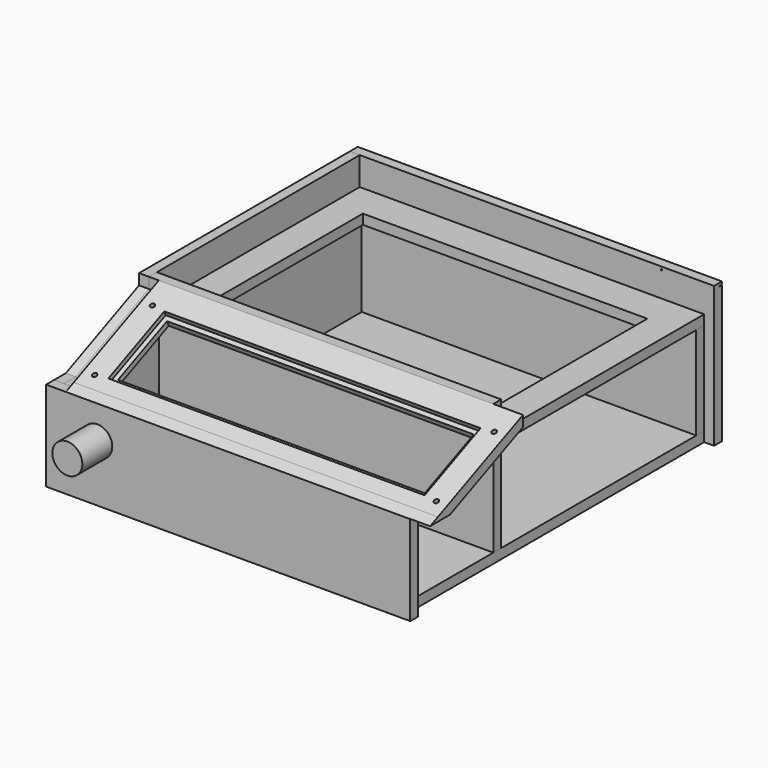
from build123d import *

# Parameters (mm, degrees)
F0_W      = 230
F0_H      = 247
F1_DEPTH  = 6.6
F2_W      = 243.2
F2_H      = 94
F2_R      = 0.4403166593
F3_DEPTH  = 6.6
F4_W      = 247
F4_H      = 94
F5_DEPTH  = 6.6
F6_W      = 230
F6_H      = 62
F7_DEPTH  = 6.6
F8_W      = 243.2
F8_H      = 60
F9_DEPTH  = 6.6
F10_W     = 71
F10_H     = 87.4
F11_DEPTH = 6.6
F12_W     = 230
F12_H     = 87.4
F13_DEPTH = 6.6
F14_R     = 0.402989406
F15_DEPTH = 2
F16_W     = 162.8
F16_H     = 62
F17_DEPTH = 6.6
F18_W     = 216.8
F18_H     = 62
F19_DEPTH = 6.6
F20_W     = 230
F20_H     = 162.8
F20_W_2   = 190
F20_H_2   = 127
F20_H_3   = 6.6
F21_DEPTH = 6.6
F22_W     = 216.8
F22_H     = 53.4
F23_DEPTH = 6.6
F25_DEPTH = 243.2
F27_DEPTH = 25
F28_DEPTH = 25
F29_W     = 204.86
F29_H     = 44.65
F30_DEPTH = 37.7334511403
F31_W     = 211.2
F31_H     = 51
F32_DEPTH = 3
F33_R     = 1.5
F34_DEPTH = 6.6
F35_R     = 10
F36_DEPTH = 25


with BuildPart() as f1:
    # F0 (on Top) → F1 (new body)
    with BuildSketch(Plane.XY):
        Rectangle(F0_W, F0_H)
    extrude(amount=F1_DEPTH)

    # F26 (on face) → F28 (cut)
    with BuildSketch(Plane.YZ.offset(-108.4)):
        Polygon((-52.5, 86.7930374113), (-52.5, 94), (-123.5, 62.8581471056), (-130.0162610969, 60), (-113.585178928, 60), align=None)
        Polygon((-123.5, 62.8581471056), (-52.5, 94), (-123.5, 94), align=None)
    extrude(amount=-F28_DEPTH, mode=Mode.SUBTRACT)


with BuildPart() as f3:
    # F2 (on face) → F3 (new body)
    with BuildSketch(Plane(origin=(0, 123.5, 0), x_dir=(-1, 0, 0), z_dir=(0, 1, 0))):
        with Locations((0, 47)):
            Rectangle(F2_W, F2_H)
        with Locations((-86.6, 92.1)):
            Circle(F2_R, mode=Mode.SUBTRACT)
    extrude(amount=F3_DEPTH)

    # F14 (on face) → F15 (cut)
    with BuildSketch(Plane(origin=(0, 130.1, 0), x_dir=(-1, 0, 0), z_dir=(0, 1, 0))):
        with Locations((-121.6, 92.1)):
            Circle(F14_R)
    extrude(amount=-F15_DEPTH, mode=Mode.SUBTRACT)


with BuildPart() as f5:
    # F4 (on face) → F5 (new body)
    with BuildSketch(Plane(origin=(-115, 0, 0), x_dir=(0, -1, 0), z_dir=(-1, 0, 0))):
        with Locations((0, 47)):
            Rectangle(F4_W, F4_H)
    extrude(amount=F5_DEPTH)


with BuildPart() as f7:
    # F6 (on face) → F7 (new body)
    with BuildSketch(Plane.XZ.offset(-123.5)):
        with Locations((0, 37.6)):
            Rectangle(F6_W, F6_H)
    extrude(amount=F7_DEPTH)


with BuildPart() as f9:
    # F8 (on face) → F9 (new body)
    with BuildSketch(Plane.XZ.offset(123.5)):
        with Locations((0, 30)):
            Rectangle(F8_W, F8_H)
    extrude(amount=F9_DEPTH)

    # F35 (on face) → F36 (join)
    with BuildSketch(Plane.XZ.offset(130.1)):
        with Locations((-87.3980596662, 37.8140471876)):
            Circle(F35_R)
    extrude(amount=F36_DEPTH)


with BuildPart() as f11:
    # F10 (on face) → F11 (new body)
    with BuildSketch(Plane.YZ.offset(-115)):
        with Locations((-88, 50.3)):
            Rectangle(F10_W, F10_H)
    extrude(amount=F11_DEPTH)


with BuildPart() as f13:
    # F12 (on face) → F13 (new body)
    with BuildSketch(Plane(origin=(0, -52.5, 0), x_dir=(-1, 0, 0), z_dir=(0, 1, 0))):
        with Locations((0, 50.3)):
            Rectangle(F12_W, F12_H)
    extrude(amount=F13_DEPTH)


with BuildPart() as f17:
    # F16 (on face) → F17 (new body)
    with BuildSketch(Plane.YZ.offset(-115)):
        with Locations((35.5, 37.6)):
            Rectangle(F16_W, F16_H)
    extrude(amount=F17_DEPTH)


with BuildPart() as f19:
    # F18 (on face) → F19 (new body)
    with BuildSketch(Plane(origin=(0, -45.9, 0), x_dir=(-1, 0, 0), z_dir=(0, 1, 0))):
        with Locations((0, 37.6)):
            Rectangle(F18_W, F18_H)
    extrude(amount=F19_DEPTH)


with BuildPart() as f21:
    # F20 (on face) → F21 (new body)
    with BuildSketch(Plane.XY.offset(68.6)):
        with Locations((0, 35.5)):
            Rectangle(F20_W, F20_H)
        with Locations((0, 37.6)):
            Rectangle(F20_W_2, F20_H_2, mode=Mode.SUBTRACT)
        with Locations((0, 120.2)):
            Rectangle(F20_W, F20_H_3)
    extrude(amount=F21_DEPTH)


with BuildPart() as f23:
    # F22 (on face) → F23 (new body)
    with BuildSketch(Plane(origin=(0, -123.5, 0), x_dir=(-1, 0, 0), z_dir=(0, 1, 0))):
        with Locations((0, 33.3)):
            Rectangle(F22_W, F22_H)
    extrude(amount=F23_DEPTH)


with BuildPart() as f25:
    # F24 (on face) → F25 (new body)
    with BuildSketch(Plane.YZ.offset(-108.4)):
        Polygon((-123.5, 60.081971369), (-113.3965536834, 60.1229617272), (-52.5, 86.7947146387), (-52.5, 94), (-123.5, 62.9030931608), align=None)
        Polygon((-130.0013661385, 60.0555948913), (-123.5, 60.081971369), (-123.5, 62.9030931608), align=None)
    extrude(amount=F25_DEPTH)

    # F29 (on face) → F30 (cut, through all)
    with BuildSketch(Plane(origin=(0, -40.3462153981, 92.1178851671), x_dir=(1, 0, 0), z_dir=(0, 0.4011913807, -0.9159942555))):
        with Locations((13.2, 52.7047777396)):
            Rectangle(F29_W, F29_H)
    extrude(amount=-F30_DEPTH, mode=Mode.SUBTRACT)

    # F31 (on face) → F32 (cut)
    with BuildSketch(Plane(origin=(0, -42.9940785105, 98.1634472532), x_dir=(1, 0, 0), z_dir=(0, -0.4011913807, 0.9159942555))):
        with Locations((13.2, -52.6867175557)):
            Rectangle(F31_W, F31_H)
    extrude(amount=-F32_DEPTH, mode=Mode.SUBTRACT)

    # F33 (on face) → F34 (cut)
    with BuildSketch(Plane(origin=(0, -42.9940785105, 98.1634472532), x_dir=(1, 0, 0), z_dir=(0, -0.4011913807, 0.9159942555))):
        with Locations((-100.9, -79.0993697975)):
            Circle(F33_R)
        with Locations((-100.9, -26.3777086293)):
            Circle(F33_R)
        with Locations((127.3, -26.3777086293)):
            Circle(F33_R)
        with Locations((127.3, -79.0993697975)):
            Circle(F33_R)
    extrude(amount=-F34_DEPTH, mode=Mode.SUBTRACT)


with BuildPart() as f27_tool:
    # F26 (on face) → F27 (new body)
    with BuildSketch(Plane.YZ.offset(-108.4)):
        Polygon((-52.5, 86.7930374113), (-52.5, 94), (-123.5, 62.8581471056), (-130.0162610969, 60), (-113.585178928, 60), align=None)
        Polygon((-123.5, 62.8581471056), (-52.5, 94), (-123.5, 94), align=None)
    extrude(amount=-F27_DEPTH)


with BuildPart() as f5_1:
    add(f5.part)

    # F27: cut by f27_tool
    add(f27_tool.part, mode=Mode.SUBTRACT)


with BuildPart() as f11_1:
    add(f11.part)

    # F27: cut by f27_tool
    add(f27_tool.part, mode=Mode.SUBTRACT)


solid = Compound([f1.part, f3.part, f7.part, f9.part, f13.part, f17.part, f19.part, f21.part, f23.part, f25.part, f5_1.part, f11_1.part])
